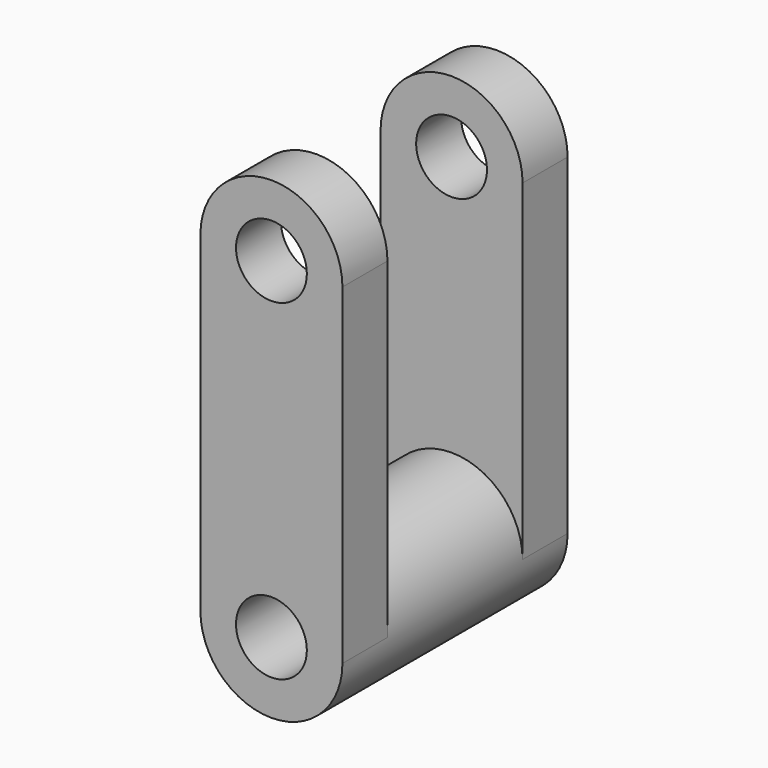
from build123d import *

# Parameters (mm, degrees)
F0_R     = 64.0760449632
F0_R_2   = 31.9745078145
F1_DEPTH = 254
F2_R     = 31.9745078145
F3_DEPTH = 50.8
F4_R     = 31.9745078145
F5_DEPTH = 50.8


with BuildPart() as f1:
    # F0 (on Front) → F1 (new body)
    with BuildSketch(Plane.XZ):
        Circle(F0_R)
        Circle(F0_R_2, mode=Mode.SUBTRACT)
    extrude(amount=F1_DEPTH)

    # F2 (on face) → F3 (join)
    with BuildSketch(Plane(origin=(0, 0, 0), x_dir=(-1, 0, 0), z_dir=(0, 1, 0))):
        with BuildLine():
            ThreePointArc((-64.0760449632, 0), (0, -64.0760449632), (64.0760449632, 0))
            ThreePointArc((64.0760449632, 0), (0, 64.0760449632), (-64.0760449632, 0))
        make_face()
        Circle(F2_R, mode=Mode.SUBTRACT)
        with BuildLine():
            ThreePointArc((-64.0760449632, 0), (0, 64.0760449632), (64.0760449632, 0))
            Line((64.0760449632, 0), (64.0760449632, 299.0727424622))
            ThreePointArc((64.0760449632, 299.0727424622), (0, 363.1487874254), (-64.0760449632, 299.0727424622))
            Line((-64.0760449632, 299.0727424622), (-64.0760449632, 0))
        make_face()
        with Locations((0, 299.0727424622)):
            Circle(F2_R, mode=Mode.SUBTRACT)
    extrude(amount=-F3_DEPTH)

    # F4 (on face) → F5 (join)
    with BuildSketch(Plane.XZ.offset(254)):
        with BuildLine():
            Line((64.0760449632, 0), (64.0760449632, 299.0727424622))
            ThreePointArc((64.0760449632, 299.0727424622), (0, 363.1487874254), (-64.0760449632, 299.0727424622))
            Line((-64.0760449632, 299.0727424622), (-64.0760449632, 0))
            ThreePointArc((-64.0760449632, 0), (0, 64.0760449632), (64.0760449632, 0))
        make_face()
        with Locations((0, 299.0727424622)):
            Circle(F4_R, mode=Mode.SUBTRACT)
    extrude(amount=-F5_DEPTH)


solid = f1.part
